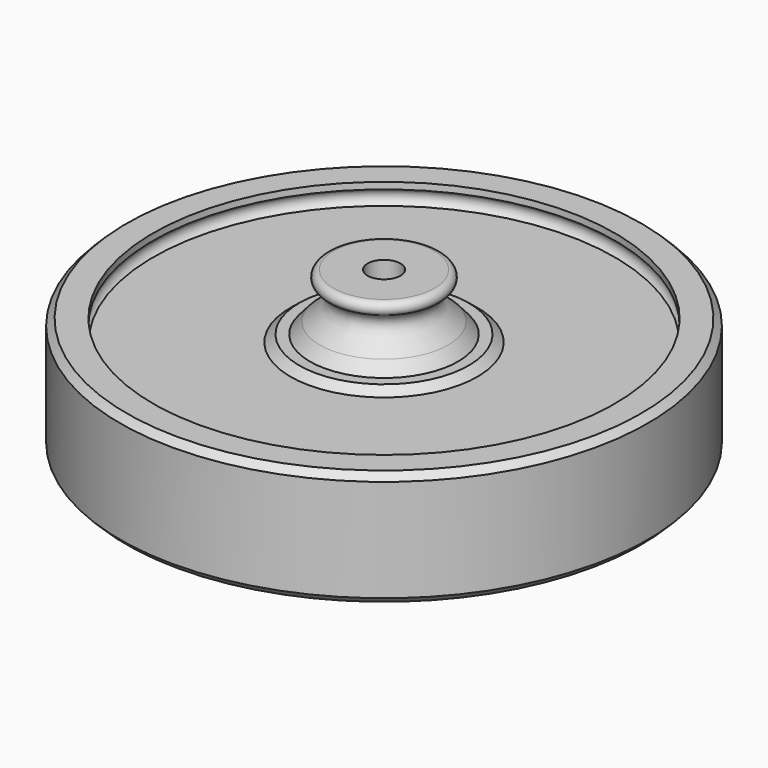
from build123d import *

# Parameters (mm, degrees)
F2_SIZE  = 1
F4_D     = 5
F4_DEPTH = 10
F4_TIP   = 1.5021515476
F6_D     = 5
F6_DEPTH = 10
F6_TIP   = 1.5021515476


with BuildPart() as f1:
    # F0 (on Right) → F1 (revolve)
    with BuildSketch(Plane.YZ):
        with BuildLine():
            Line((-34.9975310415, -8.7684630316), (-34.9975310415, -7.7618486148))
            ThreePointArc((-34.9975310415, -7.7618486148), (-35.5872711621, -6.666833685), (-34.9741213173, -5.5847531085))
            Line((-34.9741213173, -5.5847531085), (-14.1769252494, -5.5782394384))
            Line((-14.1769252494, -5.5782394384), (-12.8526767492, -6.6435985056))
            Line((-12.8526767492, -6.6435985056), (-11.2304720804, -6.6435985056))
            Line((-11.2304720804, -6.6435985056), (-9.7254455775, -8.3647767839))
            add(Edge.make_bspline(
                [(-9.7254455775, -8.3647767839), (-8.7001865952, -9.2033861201), (-7.165485756, -10.4586928029), (-6.7562155938, -11.3431335449), (-6.8678049942, -12.1239632421), (-7.3544191168, -12.8385994121), (-7.6392150238, -13.2568475616)],
                knots=[0, 0, 0, 0, 0.3859396697, 0.577709579, 0.7528501991, 1, 1, 1, 1], degree=3))
            ThreePointArc((-7.6392150238, -13.2568475616), (-8.6193595775, -14.2538765484), (-7.6563052587, -15.2674230573))
            Line((-7.6563052587, -15.2674230573), (-0.0109901428, -15.2674230573))
            Line((-0.0109901428, -15.2674230573), (-0.0109901428, 15.2540649536))
            Line((-0.0109901428, 15.2540649536), (-7.6563052587, 15.2540649536))
            ThreePointArc((-7.6563052587, 15.2540649536), (-8.6332463343, 14.251273616), (-7.6563052587, 13.2484822783))
            add(Edge.make_bspline(
                [(-9.7254455775, 8.3551705132), (-8.704017331, 9.1014948435), (-7.007921539, 10.3407767611), (-6.7411869918, 12.0938302294), (-7.3539182635, 12.8669449664), (-7.6563052587, 13.2484822783)],
                knots=[0, 0, 0, 0, 0.4340104304, 0.7206803485, 1, 1, 1, 1], degree=3))
            Line((-9.7254455775, 8.3551705132), (-11.2304720804, 6.6370632711))
            Line((-11.2304720804, 6.6370632711), (-12.8526767492, 6.6370632711))
            Line((-12.8526767492, 6.6370632711), (-14.1769252494, 5.5717042039))
            Line((-14.1769252494, 5.5717042039), (-23.0125773847, 5.5717042039))
            Line((-23.0125773847, 5.5717042039), (-34.9515758604, 5.5717042039))
            ThreePointArc((-34.9515758604, 5.5717042039), (-35.6011201814, 6.6451656288), (-35.0007888079, 7.7469049345))
            Line((-35.0007888079, 7.7469049345), (-35.0007888079, 8.7508441272))
            Line((-35.0007888079, 8.7508441272), (-39.9954866767, 8.7508441272))
            Line((-39.9954866767, 8.7508441272), (-39.9954866767, -8.7684630316))
            Line((-39.9954866767, -8.7684630316), (-34.9975310415, -8.7684630316))
        make_face()
    revolve(axis=Axis((0, -0.0109901428, -0.0066790518), (0, 0, -1)))

    # F2
    f2_edges = [f1.edges().sort_by_distance(p)[0] for p in [
        (0, 39.973506, 8.750844),
        (0, 39.973506, -8.768463),
    ]]
    chamfer(f2_edges, length=F2_SIZE)

    # F4
    with Locations(Plane.XY.offset(15.2540649536)):
        with Locations((0, 0)):
            Hole(F4_D / 2, depth=F4_DEPTH)
            with Locations((0, 0, -(F4_DEPTH + F4_TIP / 2))):  # 118° drill point
                Cone(0, F4_D / 2, F4_TIP, mode=Mode.SUBTRACT)

    # F6
    with Locations(Plane(origin=(0, 0, -15.2674230573), x_dir=(1, 0, 0), z_dir=(0, 0, -1))):
        with Locations((0, 0)):
            Hole(F6_D / 2, depth=F6_DEPTH)
            with Locations((0, 0, -(F6_DEPTH + F6_TIP / 2))):  # 118° drill point
                Cone(0, F6_D / 2, F6_TIP, mode=Mode.SUBTRACT)


solid = f1.part
